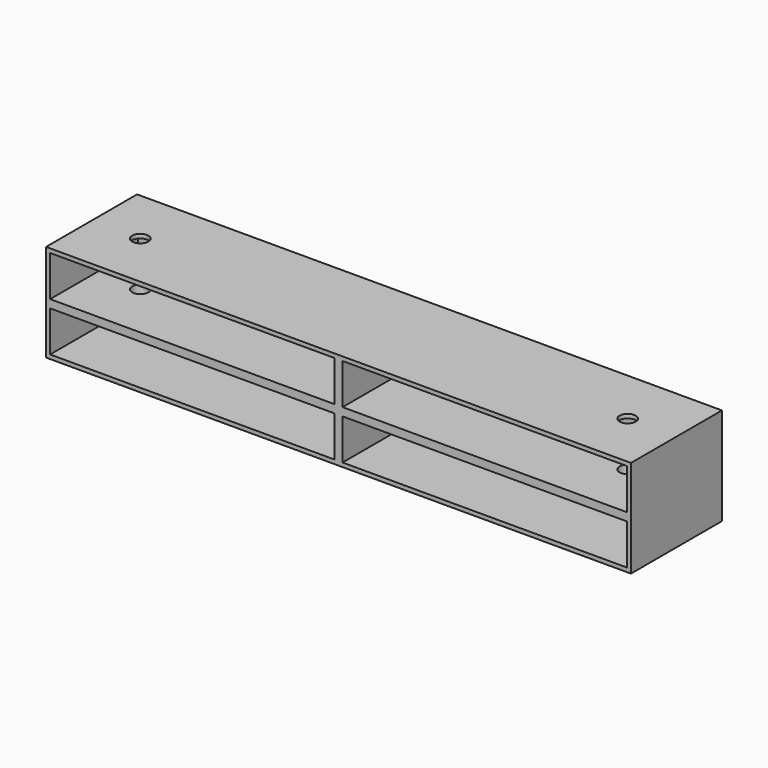
from build123d import *

# Parameters (mm, degrees)
F0_W     = 1828.8
F0_H     = 304.8
F1_DEPTH = 355.6
F2_T     = -12.7
F4_DEPTH = 342.9
F5_R     = 25.4
F6_DEPTH = 190.5


with BuildPart() as f1:
    # F0 (on Front) → F1 (new body)
    with BuildSketch(Plane.XZ):
        Rectangle(F0_W, F0_H)
    extrude(amount=F1_DEPTH)

    # F2
    f2_openings = [f1.faces().sort_by_distance(p)[0] for p in [
        (0, -355.6, 0),
    ]]
    offset(amount=F2_T, openings=f2_openings)

    # F3 (on face) → F4 (join)
    with BuildSketch(Plane.XZ.offset(12.7)):
        Polygon((12.7, 12.7), (12.7, 139.7), (-12.7, 139.7), (-12.7, 12.7), (-901.7, 12.7), (-901.7, -12.7), (-12.7, -12.7), (-12.7, -139.7), (12.7, -139.7), (12.7, -12.7), (901.7, -12.7), (901.7, 12.7), align=None)
    extrude(amount=F4_DEPTH)

    # F5 (on face) → F6 (cut)
    with BuildSketch(Plane.XY.offset(152.4)):
        with Locations((-762, -177.8)):
            Circle(F5_R)
        with Locations((762, -177.8)):
            Circle(F5_R)
    extrude(amount=-F6_DEPTH, mode=Mode.SUBTRACT)


solid = f1.part
